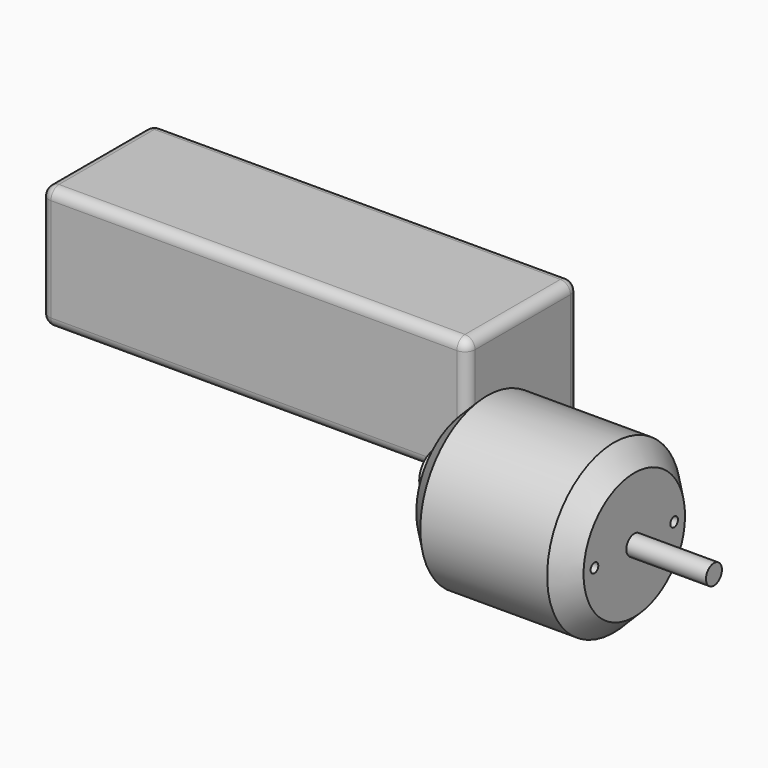
from build123d import *

# Parameters (mm, degrees)
F0_R      = 21
F1_DEPTH  = 42
F2_SIZE2  = 5.08
F2_SIZE   = 5.08
F3_R      = 2.5
F4_DEPTH  = 20
F6_D      = 2.4
F6_DEPTH  = 12.7
F6_TIP    = 0.7210327428
F7_W      = 107
F7_H      = 35
F8_DEPTH  = 31
F9_R      = 2.54
F10_R     = 5
F11_DEPTH = 8


with BuildPart() as f1:
    # F0 (on Right) → F1 (new body)
    with BuildSketch(Plane.YZ):
        Circle(F0_R)
    extrude(amount=F1_DEPTH)

    # F2
    f2_edges = [f1.edges().sort_by_distance(p)[0] for p in [
        (0, -21, 0),
        (42, -21, 0),
    ]]
    chamfer(f2_edges, length=F2_SIZE, length2=F2_SIZE2)

    # F3 (on face) → F4 (join)
    with BuildSketch(Plane.YZ.offset(42)):
        Circle(F3_R)
    extrude(amount=F4_DEPTH)

    # F6
    with Locations(Plane.YZ.offset(42)):
        with Locations((-12.5, 0), (12.5, 0)):
            Hole(F6_D / 2, depth=F6_DEPTH)
            with Locations((0, 0, -(F6_DEPTH + F6_TIP / 2))):  # 118° drill point
                Cone(0, F6_D / 2, F6_TIP, mode=Mode.SUBTRACT)

    # F10 (on face) → F11 (join)
    with BuildSketch(Plane(origin=(0, 0, 0), x_dir=(0, -1, 0), z_dir=(-1, 0, 0))):
        Circle(F10_R)
    extrude(amount=F11_DEPTH)


with BuildPart() as f8:
    # F7 (on Top) → F8 (new body)
    with BuildSketch(Plane.XY):
        with Locations((-53.5, 17.5)):
            Rectangle(F7_W, F7_H)
    extrude(amount=F8_DEPTH)

    # F9
    f9_edges = [f8.edges().sort_by_distance(p)[0] for p in [
        (-53.5, 0, 31),
        (0, 17.5, 31),
        (-53.5, 35, 31),
        (-107, 17.5, 31),
        (-53.5, 0, 0),
        (0, 17.5, 0),
        (-53.5, 35, 0),
        (-107, 17.5, 0),
        (0, 35, 15.5),
        (-107, 35, 15.5),
        (-107, 0, 15.5),
        (0, 0, 15.5),
    ]]
    fillet(f9_edges, radius=F9_R)


solid = Compound([f1.part, f8.part])
